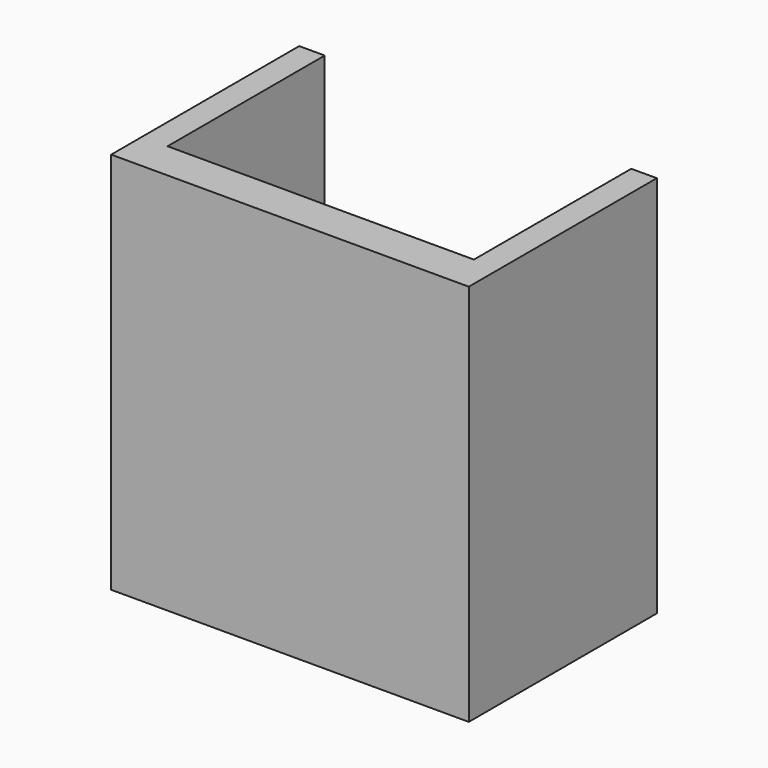
from build123d import *

# Parameters (mm, degrees)
F1_DEPTH = 50
F2_W     = 55
F2_H     = 77
F3_DEPTH = 100
F5_DEPTH = 90


with BuildPart() as f1:
    # F0 (on Top) → F1 (new body)
    with BuildSketch(Plane.XY):
        Polygon((-36.420125, 59.16098), (-46.420125, 59.16098), (-46.420125, -32.83902), (93.579875, -32.83902), (93.579875, 59.16098), (83.579875, 59.16098), (83.579875, -17.83902), (28.579875, -17.83902), (28.579875, 59.16098), (18.579875, 59.16098), (18.579875, -17.83902), (-36.420125, -17.83902), align=None)
    extrude(amount=F1_DEPTH)

    # F2 (on face) → F3 (join)
    with BuildSketch(Plane.XY.offset(50)):
        with Locations((-8.920125, 20.66098)):
            Rectangle(F2_W, F2_H)
        Polygon((-36.420125, -17.83902), (-36.420125, 59.16098), (-46.420125, 59.16098), (-46.420125, -32.83902), (93.579875, -32.83902), (93.579875, 59.16098), (83.579875, 59.16098), (83.579875, -17.83902), (28.579875, -17.83902), (28.579875, 59.16098), (18.579875, 59.16098), (18.579875, -17.83902), align=None)
    extrude(amount=F3_DEPTH)

    # F4 (on face) → F5 (cut)
    with BuildSketch(Plane.XY.offset(150)):
        Polygon((28.579875, 59.16098), (-36.420125, 59.16098), (-36.420125, -17.760558), (8.856312, -17.760558), (28.579875, -17.83902), align=None)
    extrude(amount=-F5_DEPTH, mode=Mode.SUBTRACT)


solid = f1.part
